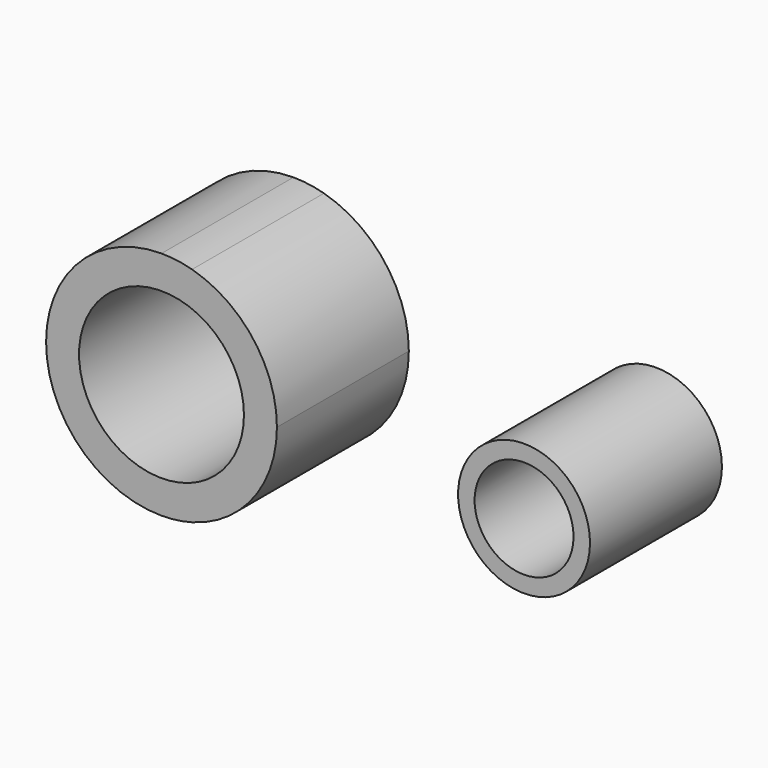
from build123d import *

# Parameters (mm, degrees)
F0_R     = 12.5
F0_R_2   = 10
F0_R_3   = 7.5
F1_DEPTH = 25
F2_DEPTH = 25


with BuildPart() as f1:
    # F0 (on Front) → F1 (new body)
    with BuildSketch(Plane.XZ):
        with BuildLine():
            Line((-50.338149, 16.875463), (-54.971586, 17.5))
            ThreePointArc((-54.971586, 17.5), (-72.471586, 0), (-54.971586, -17.5))
            Line((-54.971586, -17.5), (-50.338149, -16.875463))
            ThreePointArc((-50.338149, -16.875463), (-41.055136, -10.610487), (-37.471586, 0))
            ThreePointArc((-37.471586, 0), (-41.055136, 10.610487), (-50.338149, 16.875463))
        make_face()
        with Locations((-54.971586, 0)):
            Circle(F0_R, mode=Mode.SUBTRACT)
        with BuildLine():
            ThreePointArc((-50.338149, 16.875463), (-52.633917, 17.343163), (-54.971586, 17.5))
            Line((-54.971586, 17.5), (-50.338149, 16.875463))
        make_face()
        with BuildLine():
            Line((-50.338149, -16.875463), (-54.971586, -17.5))
            ThreePointArc((-54.971586, -17.5), (-52.633917, -17.343163), (-50.338149, -16.875463))
        make_face()
        Circle(F0_R_2)
        Circle(F0_R_3, mode=Mode.SUBTRACT)
    extrude(amount=F1_DEPTH)


with BuildPart() as f2:
    # F0 (on Front) → F2 (new body)
    with BuildSketch(Plane.XZ):
        with BuildLine():
            Line((-50.338149, 16.875463), (-54.971586, 17.5))
            ThreePointArc((-54.971586, 17.5), (-72.471586, 0), (-54.971586, -17.5))
            Line((-54.971586, -17.5), (-50.338149, -16.875463))
            ThreePointArc((-50.338149, -16.875463), (-41.055136, -10.610487), (-37.471586, 0))
            ThreePointArc((-37.471586, 0), (-41.055136, 10.610487), (-50.338149, 16.875463))
        make_face()
        with Locations((-54.971586, 0)):
            Circle(F0_R, mode=Mode.SUBTRACT)
        with BuildLine():
            ThreePointArc((-50.338149, 16.875463), (-52.633917, 17.343163), (-54.971586, 17.5))
            Line((-54.971586, 17.5), (-50.338149, 16.875463))
        make_face()
        with BuildLine():
            Line((-50.338149, -16.875463), (-54.971586, -17.5))
            ThreePointArc((-54.971586, -17.5), (-52.633917, -17.343163), (-50.338149, -16.875463))
        make_face()
        Circle(F0_R_2)
        Circle(F0_R_3, mode=Mode.SUBTRACT)
    extrude(amount=F2_DEPTH)


solid = Compound([f1.part, f2.part])
